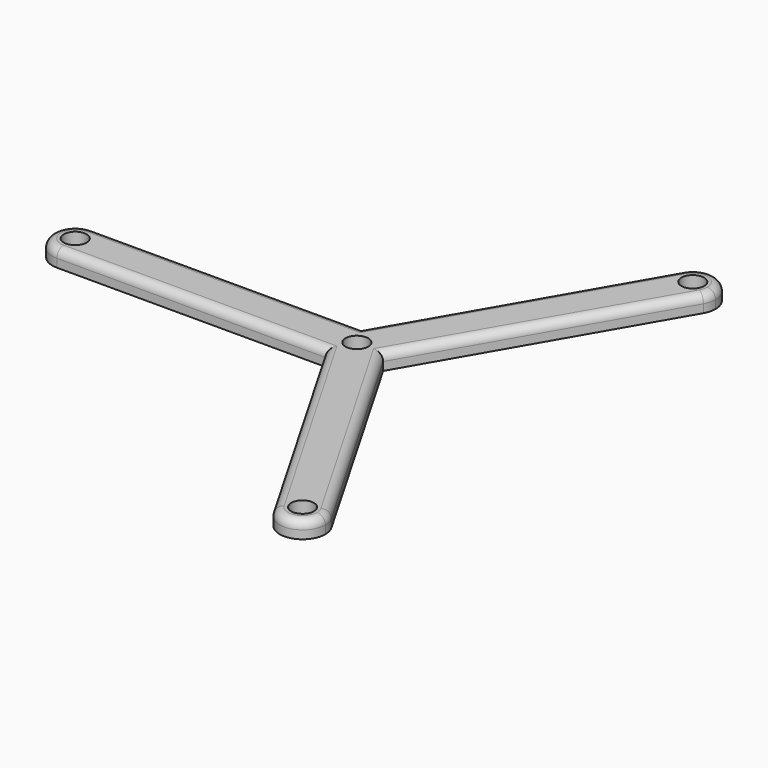
from build123d import *

# Parameters (mm, degrees)
F1_DEPTH = 2
F2_R     = 1.375
F3_DEPTH = 2
F4_R     = 1


with BuildPart() as f1:
    # F0 (on Top) → F1 (new body)
    with BuildSketch(Plane.XY):
        with BuildLine():
            ThreePointArc((-34, -2.75), (-32.055456, -1.944544), (-31.25, 0))
            ThreePointArc((-31.25, 0), (-32.055456, 1.944544), (-34, 2.75))
            ThreePointArc((-34, 2.75), (-36.75, 0), (-34, -2.75))
        make_face()
        with BuildLine():
            ThreePointArc((-34, 2.75), (-32.055456, 1.944544), (-31.25, 0))
            ThreePointArc((-31.25, 0), (-32.055456, -1.944544), (-34, -2.75))
            Line((-34, -2.75), (-1.587713, -2.75))
            Line((-1.587713, -2.75), (14.61843, -30.819864))
            ThreePointArc((14.61843, -30.819864), (15.625, -27.063294), (19.38157, -28.069864))
            Line((19.38157, -28.069864), (3.175426, 0))
            Line((3.175426, 0), (19.38157, 28.069864))
            ThreePointArc((19.38157, 28.069864), (15.625, 27.063294), (14.61843, 30.819864))
            Line((14.61843, 30.819864), (-1.587713, 2.75))
            Line((-1.587713, 2.75), (-34, 2.75))
        make_face()
        with BuildLine():
            ThreePointArc((19.75, 29.444864), (17.711752, 32.10116), (14.61843, 30.819864))
            ThreePointArc((14.61843, 30.819864), (15.625, 27.063294), (19.38157, 28.069864))
            ThreePointArc((19.38157, 28.069864), (19.656296, 28.733111), (19.75, 29.444864))
        make_face()
        with BuildLine():
            ThreePointArc((19.38157, -28.069864), (15.625, -27.063294), (14.61843, -30.819864))
            ThreePointArc((14.61843, -30.819864), (17.711752, -32.10116), (19.75, -29.444864))
            ThreePointArc((19.75, -29.444864), (19.656296, -28.733111), (19.38157, -28.069864))
        make_face()
    extrude(amount=F1_DEPTH)

    # F2 (on face) → F3 (cut, through all)
    with BuildSketch(Plane.XY.offset(2)):
        with Locations((-34, 0)):
            Circle(F2_R)
        with Locations((17, 29.444864)):
            Circle(F2_R)
        Circle(F2_R)
        with Locations((17, -29.444864)):
            Circle(F2_R)
    extrude(amount=-F3_DEPTH, mode=Mode.SUBTRACT)

    # F4
    f4_edges = [f1.edges().sort_by_distance(p)[0] for p in [
        (18.375, 31.826434, 2),
        (11.278498, 14.034932, 2),
        (-17.793857, 2.75, 2),
        (6.515358, -16.784932, 2),
    ]]
    fillet(f4_edges, radius=F4_R)


solid = f1.part
